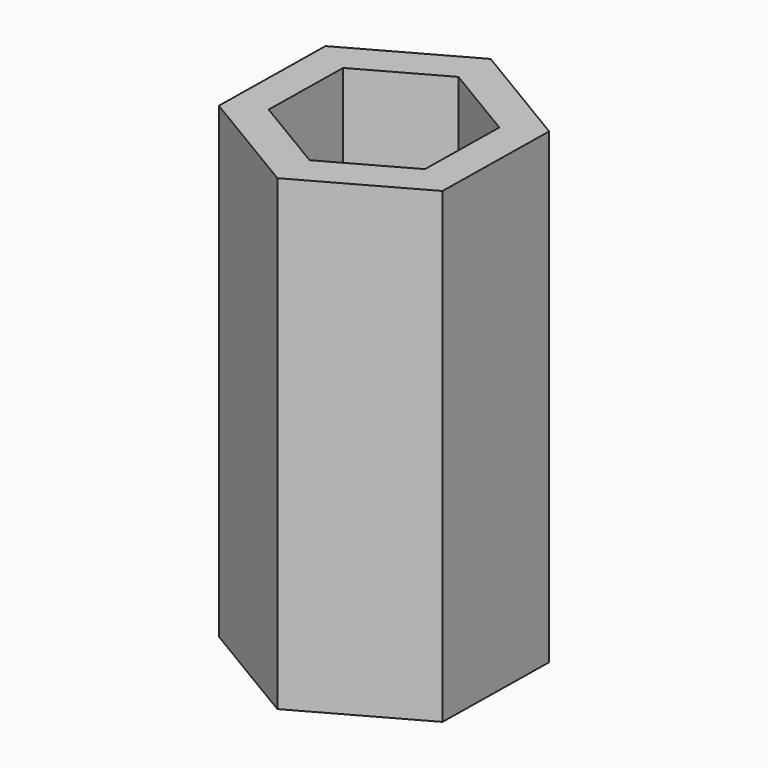
from build123d import *

# Parameters (mm, degrees)
F1_DEPTH = 13
F3_DEPTH = 10


with BuildPart() as f1:
    # F0 (on Top) → F1 (new body)
    with BuildSketch(Plane.XY):
        Polygon((0.0564, 3.636869), (-3.121421, 1.867279), (-3.177821, -1.769591), (-0.0564, -3.636869), (3.121421, -1.867279), (3.177821, 1.769591), align=None)
    extrude(amount=F1_DEPTH)

    # F2 (on face) → F3 (cut)
    with BuildSketch(Plane.XY.offset(13)):
        Polygon((2.219431, 1.235904), (0.039391, 2.540036), (-2.18004, 1.304131), (-2.219431, -1.235904), (-0.039391, -2.540036), (2.18004, -1.304131), align=None)
    extrude(amount=-F3_DEPTH, mode=Mode.SUBTRACT)


solid = f1.part
